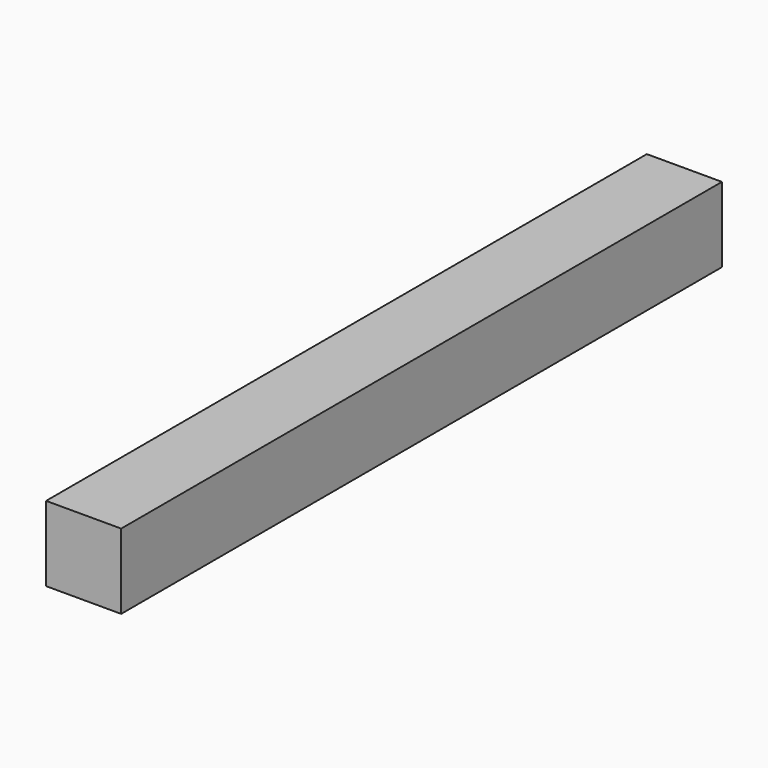
from build123d import *

# Parameters (mm, degrees)
SKETCH_W  = 30
SKETCH_H  = 30
PAD_DEPTH = 300


with BuildPart() as part:
    # Sketch → Pad (new body)
    with BuildSketch(Plane.XZ):
        with Locations((15, 15)):
            Rectangle(SKETCH_W, SKETCH_H)
    extrude(amount=PAD_DEPTH)


solid = part.part
